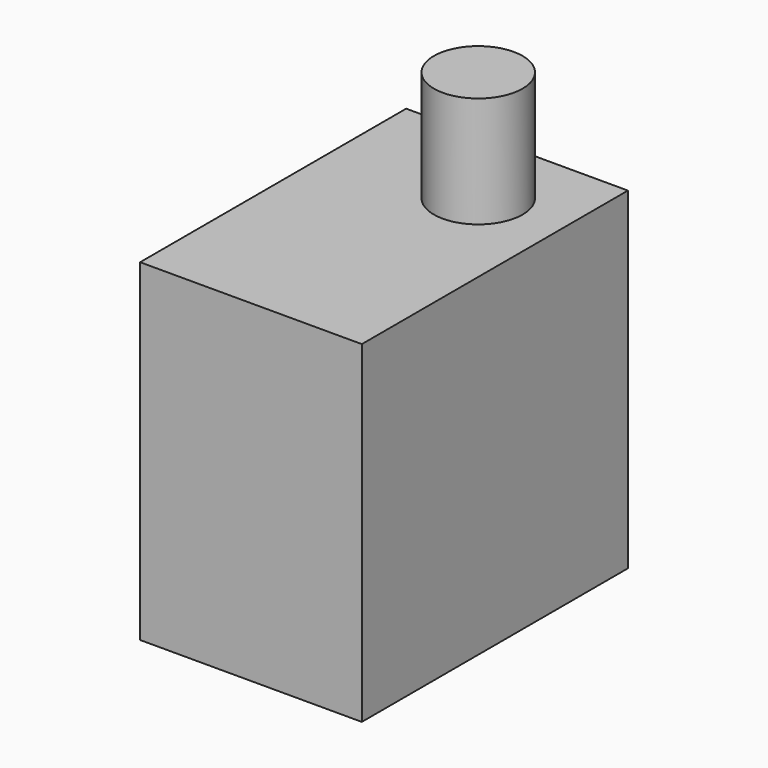
from build123d import *

# Parameters (mm, degrees)
SKETCH002_R  = 4
PAD001_DEPTH = 10
SKETCH_W     = 30
SKETCH_H     = 30
PAD_DEPTH    = 20


with BuildPart() as pad001:
    # Sketch002 → Pad001 (new body)
    with BuildSketch(Plane.XY.offset(-10)):
        Circle(SKETCH002_R)
    extrude(amount=PAD001_DEPTH)


with BuildPart() as fusion004:
    # Sketch → Pad (new body)
    with BuildSketch(Plane.YZ.offset(7.5)):
        with Locations((-7.5, -25)):
            Rectangle(SKETCH_W, SKETCH_H)
    extrude(amount=-PAD_DEPTH)

    # Fusion004: union Pad001
    add(pad001.part)


solid = fusion004.part
